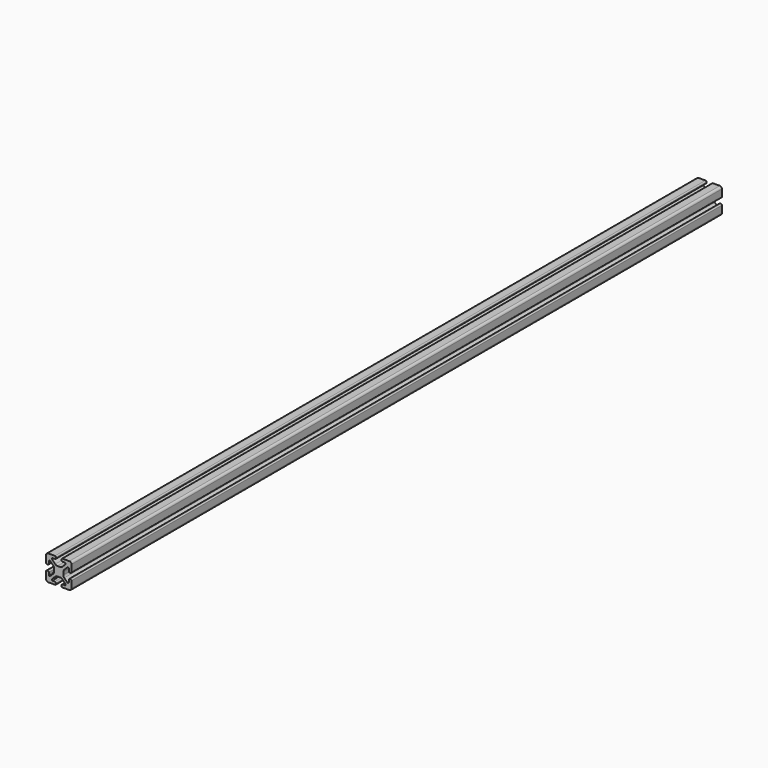
from build123d import *

# Parameters (mm, degrees)
F1_DEPTH = 1219.2


with BuildPart() as f1:
    # F0 (on Front) → F1 (new body)
    with BuildSketch(Plane.XZ):
        with BuildLine():
            Line((-5.798256, 19.400802), (-16.034456, 19.400802))
            ThreePointArc((-16.034456, 19.400802), (-18.27952, 18.470866), (-19.209456, 16.225802))
            Line((-19.209456, 16.225802), (-19.209456, 5.989602))
            ThreePointArc((-19.209456, 5.989602), (-18.748207, 4.87605), (-17.634656, 4.414802))
            Line((-17.634656, 4.414802), (-16.720256, 4.414802))
            ThreePointArc((-16.720256, 4.414802), (-15.606704, 4.87605), (-15.145456, 5.989602))
            Line((-15.145456, 5.989602), (-15.145456, 9.748802))
            ThreePointArc((-15.145456, 9.748802), (-14.885073, 10.37742), (-14.256456, 10.637802))
            Line((-14.256456, 10.637802), (-13.688373, 10.637802))
            ThreePointArc((-13.688373, 10.637802), (-13.348168, 10.570131), (-13.059755, 10.37742))
            Line((-13.059755, 10.37742), (-8.420296, 5.737961))
            ThreePointArc((-8.420296, 5.737961), (-7.390669, 4.197015), (-7.029112, 2.379345))
            Line((-7.029112, 2.379345), (-7.029112, -1.67774))
            ThreePointArc((-7.029112, -1.67774), (-7.390669, -3.49541), (-8.420296, -5.036356))
            Line((-8.420296, -5.036356), (-13.059755, -9.675816))
            ThreePointArc((-13.059755, -9.675816), (-13.348168, -9.868527), (-13.688373, -9.936198))
            Line((-13.688373, -9.936198), (-14.256456, -9.936198))
            ThreePointArc((-14.256456, -9.936198), (-14.885073, -9.675816), (-15.145456, -9.047198))
            Line((-15.145456, -9.047198), (-15.145456, -5.287998))
            ThreePointArc((-15.145456, -5.287998), (-15.606704, -4.174446), (-16.720256, -3.713198))
            Line((-16.720256, -3.713198), (-17.634656, -3.713198))
            ThreePointArc((-17.634656, -3.713198), (-18.748207, -4.174446), (-19.209456, -5.287998))
            Line((-19.209456, -5.287998), (-19.209456, -15.524198))
            ThreePointArc((-19.209456, -15.524198), (-18.27952, -17.769262), (-16.034456, -18.699198))
            Line((-16.034456, -18.699198), (-5.798256, -18.699198))
            ThreePointArc((-5.798256, -18.699198), (-4.684704, -18.23795), (-4.223456, -17.124398))
            Line((-4.223456, -17.124398), (-4.223456, -16.209998))
            ThreePointArc((-4.223456, -16.209998), (-4.684704, -15.096446), (-5.798256, -14.635198))
            Line((-5.798256, -14.635198), (-9.557456, -14.635198))
            ThreePointArc((-9.557456, -14.635198), (-10.186073, -14.374816), (-10.446456, -13.746198))
            Line((-10.446456, -13.746198), (-10.446456, -13.178116))
            ThreePointArc((-10.446456, -13.178116), (-10.378784, -12.83791), (-10.186073, -12.549498))
            Line((-10.186073, -12.549498), (-5.546614, -7.910038))
            ThreePointArc((-5.546614, -7.910038), (-4.005668, -6.880411), (-2.187998, -6.518854))
            Line((-2.187998, -6.518854), (1.869087, -6.518854))
            ThreePointArc((1.869087, -6.518854), (3.686757, -6.880411), (5.227703, -7.910038))
            Line((5.227703, -7.910038), (9.867162, -12.549498))
            ThreePointArc((9.867162, -12.549498), (10.059873, -12.83791), (10.127544, -13.178116))
            Line((10.127544, -13.178116), (10.127544, -13.746198))
            ThreePointArc((10.127544, -13.746198), (9.867162, -14.374816), (9.238544, -14.635198))
            Line((9.238544, -14.635198), (5.479344, -14.635198))
            ThreePointArc((5.479344, -14.635198), (4.365793, -15.096446), (3.904544, -16.209998))
            Line((3.904544, -16.209998), (3.904544, -17.124398))
            ThreePointArc((3.904544, -17.124398), (4.365793, -18.23795), (5.479344, -18.699198))
            Line((5.479344, -18.699198), (15.715544, -18.699198))
            ThreePointArc((15.715544, -18.699198), (17.960608, -17.769262), (18.890544, -15.524198))
            Line((18.890544, -15.524198), (18.890544, -5.287998))
            ThreePointArc((18.890544, -5.287998), (18.429296, -4.174446), (17.315744, -3.713198))
            Line((17.315744, -3.713198), (16.401344, -3.713198))
            ThreePointArc((16.401344, -3.713198), (15.287793, -4.174446), (14.826544, -5.287998))
            Line((14.826544, -5.287998), (14.826544, -9.047198))
            ThreePointArc((14.826544, -9.047198), (14.566162, -9.675816), (13.937544, -9.936198))
            Line((13.937544, -9.936198), (13.369462, -9.936198))
            ThreePointArc((13.369462, -9.936198), (13.029257, -9.868527), (12.740844, -9.675816))
            Line((12.740844, -9.675816), (8.101385, -5.036356))
            ThreePointArc((8.101385, -5.036356), (7.071758, -3.49541), (6.710201, -1.67774))
            Line((6.710201, -1.67774), (6.710201, 2.379345))
            ThreePointArc((6.710201, 2.379345), (7.071758, 4.197015), (8.101385, 5.737961))
            Line((8.101385, 5.737961), (12.740844, 10.37742))
            ThreePointArc((12.740844, 10.37742), (13.029257, 10.570131), (13.369462, 10.637802))
            Line((13.369462, 10.637802), (13.937544, 10.637802))
            ThreePointArc((13.937544, 10.637802), (14.566162, 10.37742), (14.826544, 9.748802))
            Line((14.826544, 9.748802), (14.826544, 5.989602))
            ThreePointArc((14.826544, 5.989602), (15.287793, 4.87605), (16.401344, 4.414802))
            Line((16.401344, 4.414802), (17.315744, 4.414802))
            ThreePointArc((17.315744, 4.414802), (18.429296, 4.87605), (18.890544, 5.989602))
            Line((18.890544, 5.989602), (18.890544, 16.225802))
            ThreePointArc((18.890544, 16.225802), (17.960608, 18.470866), (15.715544, 19.400802))
            Line((15.715544, 19.400802), (5.479344, 19.400802))
            ThreePointArc((5.479344, 19.400802), (4.365793, 18.939554), (3.904544, 17.826002))
            Line((3.904544, 17.826002), (3.904544, 16.911602))
            ThreePointArc((3.904544, 16.911602), (4.365793, 15.79805), (5.479344, 15.336802))
            Line((5.479344, 15.336802), (9.238544, 15.336802))
            ThreePointArc((9.238544, 15.336802), (9.867162, 15.07642), (10.127544, 14.447802))
            Line((10.127544, 14.447802), (10.127544, 13.87972))
            ThreePointArc((10.127544, 13.87972), (10.059873, 13.539514), (9.867162, 13.251102))
            Line((9.867162, 13.251102), (5.227703, 8.611643))
            ThreePointArc((5.227703, 8.611643), (3.686757, 7.582015), (1.869087, 7.220458))
            Line((1.869087, 7.220458), (-2.187998, 7.220458))
            ThreePointArc((-2.187998, 7.220458), (-4.005668, 7.582015), (-5.546614, 8.611643))
            Line((-5.546614, 8.611643), (-10.186073, 13.251102))
            ThreePointArc((-10.186073, 13.251102), (-10.378784, 13.539514), (-10.446456, 13.87972))
            Line((-10.446456, 13.87972), (-10.446456, 14.447802))
            ThreePointArc((-10.446456, 14.447802), (-10.186073, 15.07642), (-9.557456, 15.336802))
            Line((-9.557456, 15.336802), (-5.798256, 15.336802))
            ThreePointArc((-5.798256, 15.336802), (-4.684704, 15.79805), (-4.223456, 16.911602))
            Line((-4.223456, 16.911602), (-4.223456, 17.826002))
            ThreePointArc((-4.223456, 17.826002), (-4.684704, 18.939554), (-5.798256, 19.400802))
        make_face()
    extrude(amount=-F1_DEPTH)


solid = f1.part
